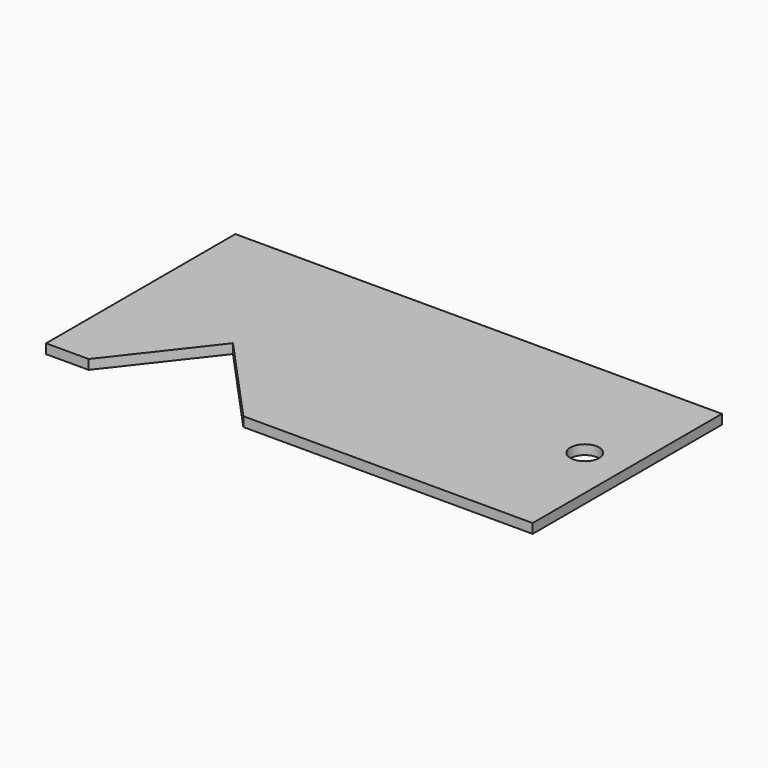
from build123d import *

# Parameters (mm, degrees)
F0_W     = 50.8
F0_H     = 24.7
F1_DEPTH = 1
F2_R     = 1.503447
F3_DEPTH = 25
F5_DEPTH = 25


with BuildPart() as f1:
    # F0 (on Top) → F1 (new body)
    with BuildSketch(Plane.XY):
        Rectangle(F0_W, F0_H)
    extrude(amount=F1_DEPTH)

    # F2 (on face) → F3 (cut)
    with BuildSketch(Plane.XY.offset(1)):
        with Locations((20.966841, 0)):
            Circle(F2_R)
    extrude(amount=-F3_DEPTH, mode=Mode.SUBTRACT)

    # F4 (on face) → F5 (cut)
    with BuildSketch(Plane(origin=(0, 0, 0), x_dir=(1, 0, 0), z_dir=(0, 0, -1))):
        Polygon((-13.518144, 21.329358), (-20.957662, 12.35), (-13.518144, 2.8125), (-4.808467, 12.35), align=None)
    extrude(amount=-F5_DEPTH, mode=Mode.SUBTRACT)


solid = f1.part
